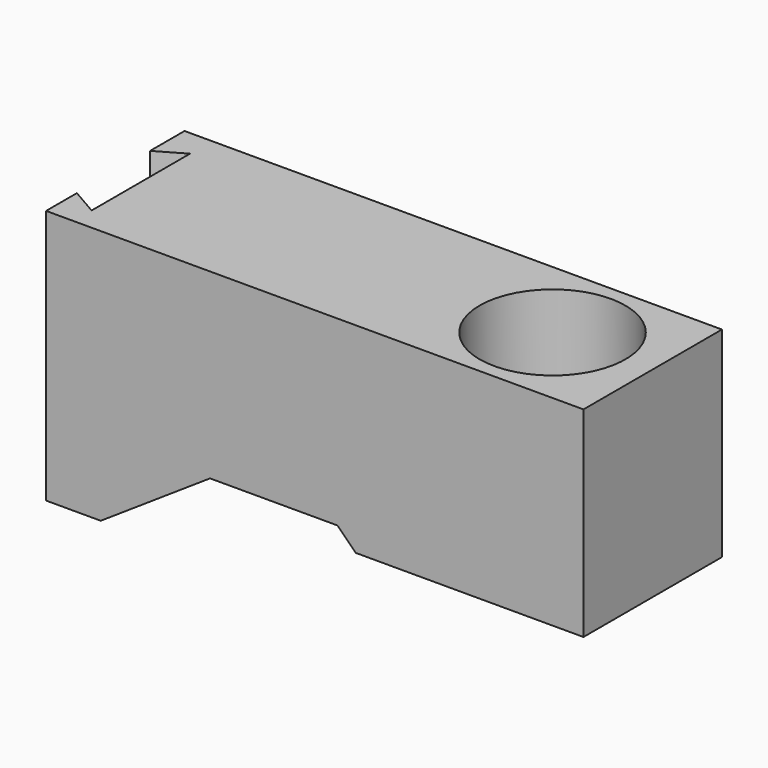
from build123d import *

# Parameters (mm, degrees)
F1_DEPTH = 60.325
F3_D     = 50.8
F5_DEPTH = 88.901


with BuildPart() as f1:
    # F0 (on Front) → F1 (new body)
    with BuildSketch(Plane.XZ):
        Polygon((0, 88.9), (0, 0), (19.05, 0), (57.15, 25.4), (101.6, 25.4), (107.95, 19.05), (187.325, 19.05), (187.325, 88.9), align=None)
    extrude(amount=F1_DEPTH)

    # F3 (through all)
    with Locations(Plane.XY.offset(88.9)):
        with Locations((152.4, -30.1625)):
            Hole(F3_D / 2)

    # F4 (on face) → F5 (cut, through all)
    with BuildSketch(Plane.XY.offset(88.9)):
        Polygon((9.525, -9.525), (0, -15.024261), (0, -46.888239), (9.525, -52.3875), align=None)
    extrude(amount=-F5_DEPTH, mode=Mode.SUBTRACT)


solid = f1.part
